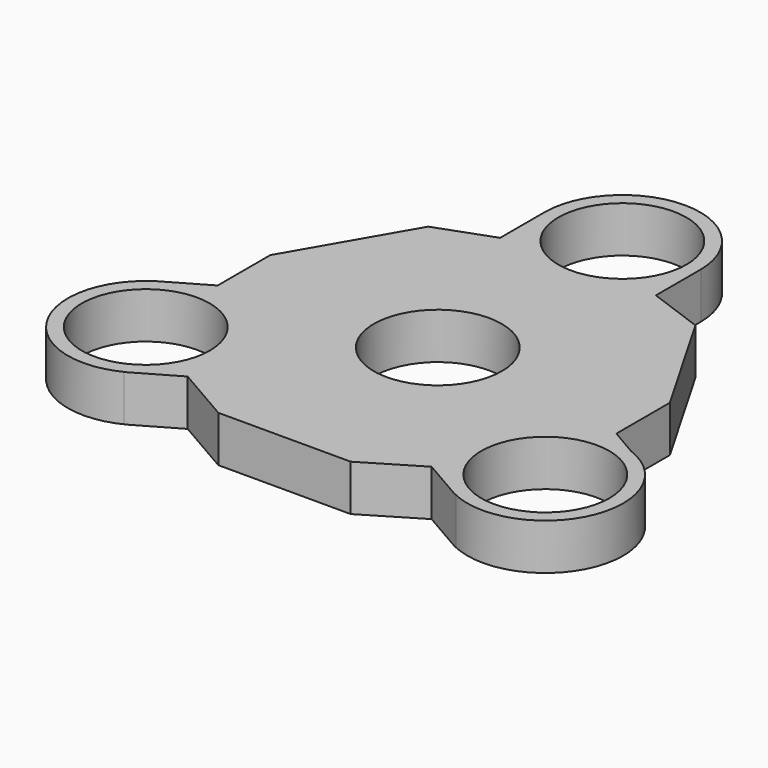
from build123d import *

# Parameters (mm, degrees)
F1_R     = 13
F2_DEPTH = 4
F0_R     = 13.5
F0_R_2   = 11.1
F3_DEPTH = 4


with BuildPart() as f2:
    # F1 (on Top) → F2 (new body, symmetric)
    with BuildSketch(Plane.XY):
        with BuildLine():
            Line((-18.5, 4.9074772881), (-42.2068053795, -8.7796531794))
            ThreePointArc((-42.2068053795, -8.7796531794), (-23.7654624284, -13.7209961304), (-28.7068053795, -32.1623390815))
            Line((-28.7068053795, -32.1623390815), (-5, -18.4752086141))
            ThreePointArc((-5, -18.4752086141), (0, -17.1354626519), (5, -18.4752086141))
            Line((5, -18.4752086141), (29.0423372789, -32.356058514))
            ThreePointArc((29.0423372789, -32.356058514), (24.1540880228, -14.0237663858), (42.4982086314, -9.180094787))
            Line((42.4982086314, -9.180094787), (18.4579555046, 4.8558277649))
            ThreePointArc((18.4579555046, 4.8558277649), (14.8276172549, 8.5127375657), (13.5, 13.4916709378))
            Line((13.5, 13.4916709378), (13.5, 40.1839444775))
            ThreePointArc((13.5, 40.1839444775), (0, 26.6839444775), (-13.5, 40.1839444775))
            Line((-13.5, 40.1839444775), (-13.5, 13.567731326))
            ThreePointArc((-13.5, 13.567731326), (-14.8397459622, 8.567731326), (-18.5, 4.9074772881))
        make_face()
        Circle(F1_R, mode=Mode.SUBTRACT)
    extrude(amount=F2_DEPTH, both=True)

    # F0 (on Top) → F3 (join, symmetric)
    with BuildSketch(Plane.XY):
        with BuildLine():
            ThreePointArc((10.4791182636, 31.4889436368), (0, 26.5), (-10.4791182636, 31.4889436368))
            Line((-10.4791182636, 31.4889436368), (-23.1661795512, 26.875))
            Line((-23.1661795512, 26.875), (-34.6410161514, 7))
            Line((-34.6410161514, 7), (-34.6410161514, -6.5))
            ThreePointArc((-34.6410161514, -6.5), (-25.0950746054, -10.454058454), (-21.1410161514, -20))
            ThreePointArc((-21.1410161514, -20), (-21.6010174965, -23.4940571089), (-22.9496732003, -26.75))
            Line((-22.9496732003, -26.75), (-11.2583302492, -33.5))
            Line((-11.2583302492, -33.5), (11.6913429511, -33.5))
            Line((11.6913429511, -33.5), (22.9496732003, -26.75))
            ThreePointArc((22.9496732003, -26.75), (22.9496732003, -13.25), (34.6410161514, -6.5))
            Line((34.6410161514, -6.5), (34.6410161514, 7))
            Line((34.6410161514, 7), (23.1661795512, 26.875))
            Line((23.1661795512, 26.875), (10.4791182636, 31.4889436368))
        make_face()
        Circle(F0_R, mode=Mode.SUBTRACT)
        with BuildLine():
            ThreePointArc((10.4791182636, 31.4889436368), (12.7223837499, 35.4843658562), (13.5, 40))
            ThreePointArc((13.5, 40), (-4.5156341438, 52.7223837499), (-10.4791182636, 31.4889436368))
            ThreePointArc((-10.4791182636, 31.4889436368), (0, 26.5), (10.4791182636, 31.4889436368))
        make_face()
        with Locations((0, 40)):
            Circle(F0_R_2, mode=Mode.SUBTRACT)
        with BuildLine():
            ThreePointArc((48.1410161514, -20), (44.1869576974, -10.454058454), (34.6410161514, -6.5))
            ThreePointArc((34.6410161514, -6.5), (22.9496732003, -13.25), (22.9496732003, -26.75))
            ThreePointArc((22.9496732003, -26.75), (38.1350732603, -33.0399986549), (48.1410161514, -20))
        make_face()
        with Locations((34.6410161514, -20)):
            Circle(F0_R_2, mode=Mode.SUBTRACT)
        with BuildLine():
            ThreePointArc((-21.1410161514, -20), (-25.0950746054, -10.454058454), (-34.6410161514, -6.5))
            ThreePointArc((-34.6410161514, -6.5), (-46.3323591025, -26.75), (-22.9496732003, -26.75))
            ThreePointArc((-22.9496732003, -26.75), (-21.6010174965, -23.4940571089), (-21.1410161514, -20))
        make_face()
        with Locations((-34.6410161514, -20)):
            Circle(F0_R_2, mode=Mode.SUBTRACT)
        Circle(F0_R)
        Circle(F0_R_2, mode=Mode.SUBTRACT)
    extrude(amount=F3_DEPTH, both=True)


solid = f2.part
